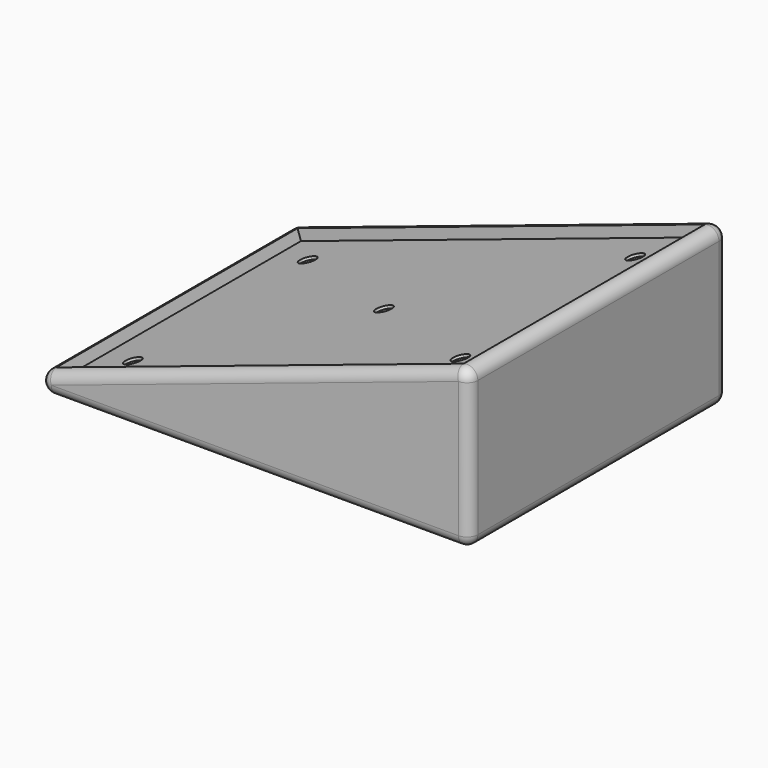
from build123d import *

# Parameters (mm, degrees)
F0_W     = 228.6
F0_H     = 152.4
F1_DEPTH = 76.2
F3_DEPTH = 152.4
F4_R     = 5.08
F5_R     = 3.81
F6_DEPTH = 6.35
F7_DEPTH = 5.08


with BuildPart() as f1:
    # F0 (on Top) → F1 (new body)
    with BuildSketch(Plane.XY):
        Rectangle(F0_W, F0_H)
    extrude(amount=F1_DEPTH)

    # F2 (on face) → F3 (cut)
    with BuildSketch(Plane.XZ.offset(76.2)):
        Polygon((-114.3, 76.2), (-114.3, 0), (114.3, 76.2), align=None)
    extrude(amount=-F3_DEPTH, mode=Mode.SUBTRACT)

    # F4
    f4_edges = [f1.edges().sort_by_distance(p)[0] for p in [
        (-114.3, 0, 0),
        (114.3, 0, 76.2),
        (0, -76.2, 38.1),
        (0, 76.2, 38.1),
        (114.3, -76.2, 38.1),
        (114.3, 76.2, 38.1),
        (114.3, 0, 0),
        (0, 76.2, 0),
        (0, -76.2, 0),
    ]]
    fillet(f4_edges, radius=F4_R)

    # F5 (on face) → F6 (cut)
    with BuildSketch(Plane(origin=(-11.43, 0, 34.29), x_dir=(0.9486832981, 0, 0.316227766), z_dir=(-0.316227766, 0, 0.9486832981))):
        with Locations((105.6566610932, -51.5762679279)):
            Circle(F5_R)
        with Locations((105.6566610932, 51.5762679279)):
            Circle(F5_R)
        with Locations((24.1764013898, 0)):
            Circle(F5_R)
        with Locations((-57.3038583136, 51.5762679279)):
            Circle(F5_R)
        with Locations((-57.3038583136, -51.5762679279)):
            Circle(F5_R)
    extrude(amount=-F6_DEPTH, mode=Mode.SUBTRACT)

    # F7 (cut): a face of the model
    f7_faces = [f1.faces().sort_by_distance(p)[0] for p in [
        (-82.2535384016, 0, 10.6821538661),
    ]]
    extrude(f7_faces, amount=-F7_DEPTH, mode=Mode.SUBTRACT)


solid = f1.part
